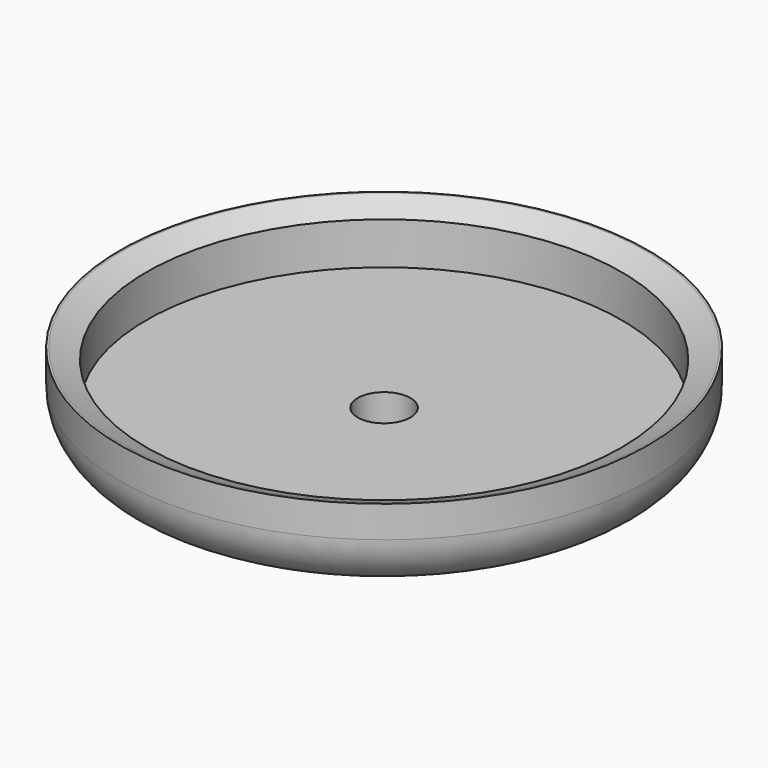
from build123d import *

# Parameters (mm, degrees)
F0_R     = 22.5
F1_DEPTH = 3
F0_R_2   = 25
F2_DEPTH = 8
F3_R     = 5
F4_SIZE2 = 2.3
F4_SIZE  = 1
F5_D     = 5


with BuildPart() as f1:
    # F0 (on Top) → F1 (new body)
    with BuildSketch(Plane.XY):
        Circle(F0_R)
    extrude(amount=F1_DEPTH)

    # F0 (on Top) → F2 (join)
    with BuildSketch(Plane.XY):
        Circle(F0_R_2)
        Circle(F0_R, mode=Mode.SUBTRACT)
    extrude(amount=F2_DEPTH)

    # F3
    f3_edges = [f1.edges().sort_by_distance(p)[0] for p in [
        (-25, 0, 0),
    ]]
    fillet(f3_edges, radius=F3_R)

    # F4
    f4_edges = [f1.edges().sort_by_distance(p)[0] for p in [
        (-22.5, 0, 8),
    ]]
    f4_side = f1.faces().sort_by_distance((-22.5, 0, 5.5))[0]
    chamfer(f4_edges, length=F4_SIZE, length2=F4_SIZE2, reference=f4_side)

    # F5 (through all)
    with Locations(Plane(origin=(0, 0, 0), x_dir=(1, 0, 0), z_dir=(0, 0, -1))):
        with Locations((0, 0)):
            Hole(F5_D / 2)


solid = f1.part
